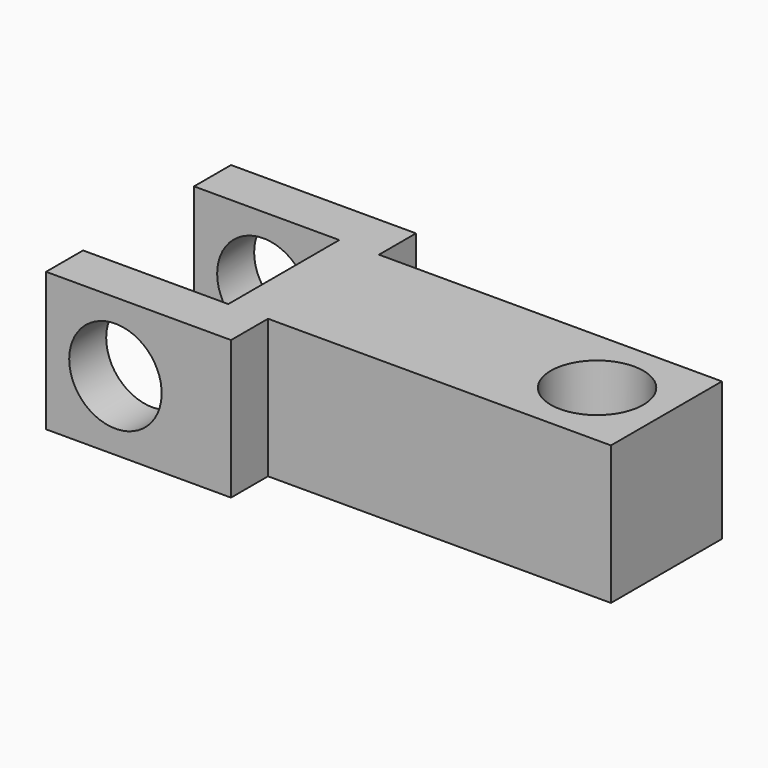
from build123d import *

# Parameters (mm, degrees)
F1_DEPTH = 19.05
F3_D     = 12.7
F5_D     = 12.7


with BuildPart() as f1:
    # F0 (on Top) → F1 (new body)
    with BuildSketch(Plane.XY):
        Polygon((45.4040161939, -4.0381300203), (-1.6949172365, -4.0381300203), (-1.6949172365, 2.3118699797), (-27.0949172365, 2.3118699797), (-27.0949172365, -4.0381300203), (-7.1481281937, -4.0381300203), (-7.1481281937, -23.0881300203), (-27.0949172365, -23.0881300203), (-27.0949172365, -29.4381300203), (-1.6949172365, -29.4381300203), (-1.6949172365, -23.0881300203), (45.4040161939, -23.0881300203), align=None)
    extrude(amount=F1_DEPTH)

    # F3 (through all)
    with Locations(Plane.XZ.offset(29.4381300203)):
        with Locations((-17.5699172365, 9.525)):
            Hole(F3_D / 2)

    # F5 (through all)
    with Locations(Plane(origin=(0, 0, 0), x_dir=(1, 0, 0), z_dir=(0, 0, -1))):
        with Locations((35.8790161939, 13.5631300203)):
            Hole(F5_D / 2)


solid = f1.part
